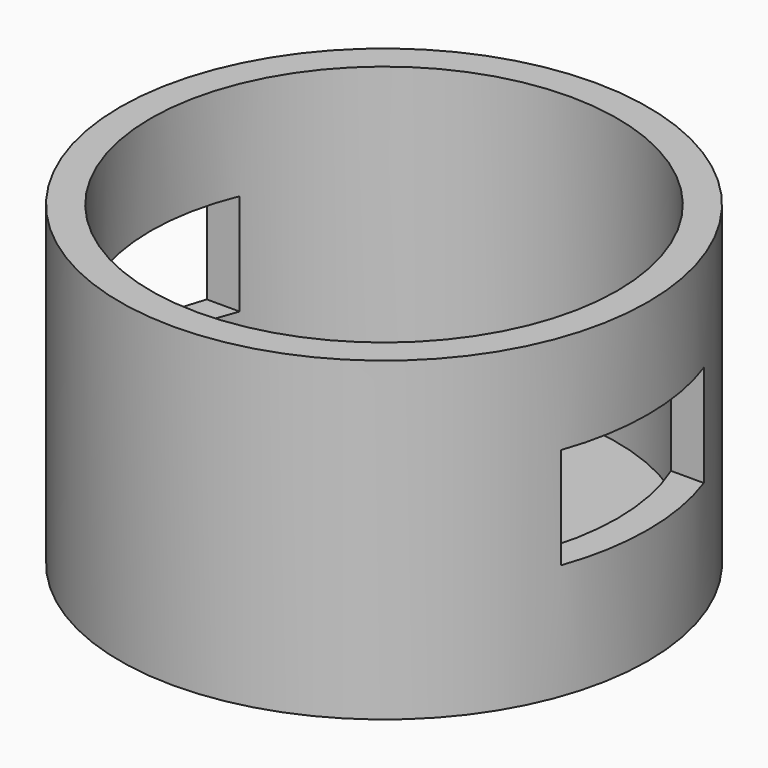
from build123d import *

# Parameters (mm, degrees)
F2_W     = 44.784308
F2_H     = 25.510244
F3_DEPTH = 97.282


with BuildPart() as f1:
    # F0 (on Front) → F1 (revolve)
    with BuildSketch(Plane.XZ):
        Polygon((0, 7.686303), (0, 0), (66.34514, 0), (66.34514, 79.4065), (58.646366, 79.4065), (58.646366, 7.686303), align=None)
    revolve(axis=Axis((0, 0, 3.843152), (0, 0, -1)))

    # F2 (on Right) → F3 (cut, symmetric)
    with BuildSketch(Plane.YZ):
        with Locations((0, 41.766498)):
            Rectangle(F2_W, F2_H)
    extrude(amount=F3_DEPTH, both=True, mode=Mode.SUBTRACT)


solid = f1.part
